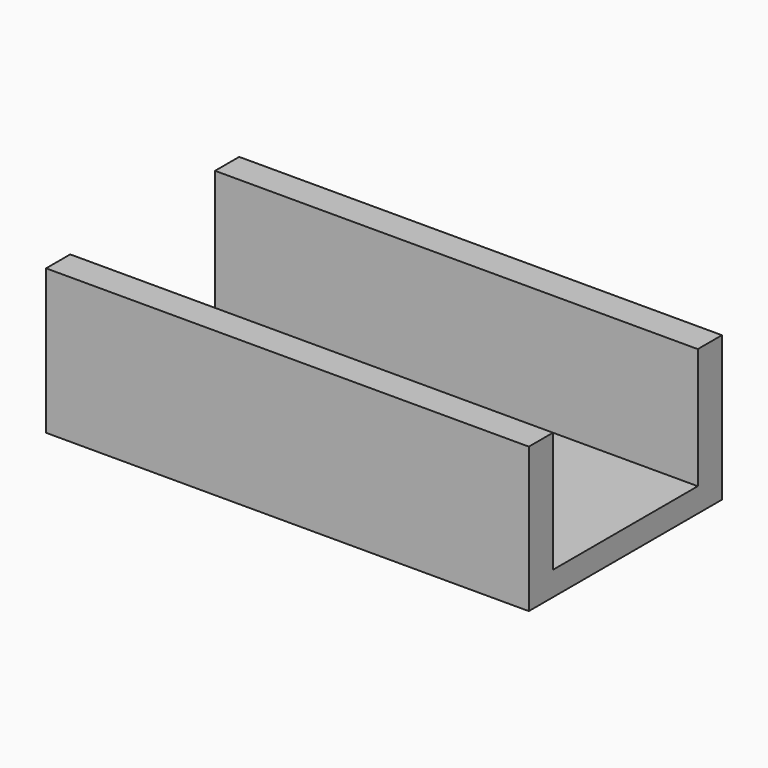
from build123d import *

# Parameters (mm, degrees)
SKETCH_W     = 40
SKETCH_H     = 20
PAD_DEPTH    = 2
SKETCH001_W  = 40
SKETCH001_H  = 2.5
PAD001_DEPTH = 10


with BuildPart() as part:
    # Sketch → Pad (new body)
    with BuildSketch(Plane.XY):
        with Locations((20, 10)):
            Rectangle(SKETCH_W, SKETCH_H)
    extrude(amount=PAD_DEPTH)

    # Sketch001 (on Face6 of Pad) → Pad001 (join)
    with BuildSketch(Plane.XY.offset(2)):
        with Locations((20, 1.25)):
            Rectangle(SKETCH001_W, SKETCH001_H)
        with Locations((20, 18.75)):
            Rectangle(SKETCH001_W, SKETCH001_H)
        Polygon((0, 2.5), (0, 0), align=None)
    extrude(amount=PAD001_DEPTH)


solid = part.part
